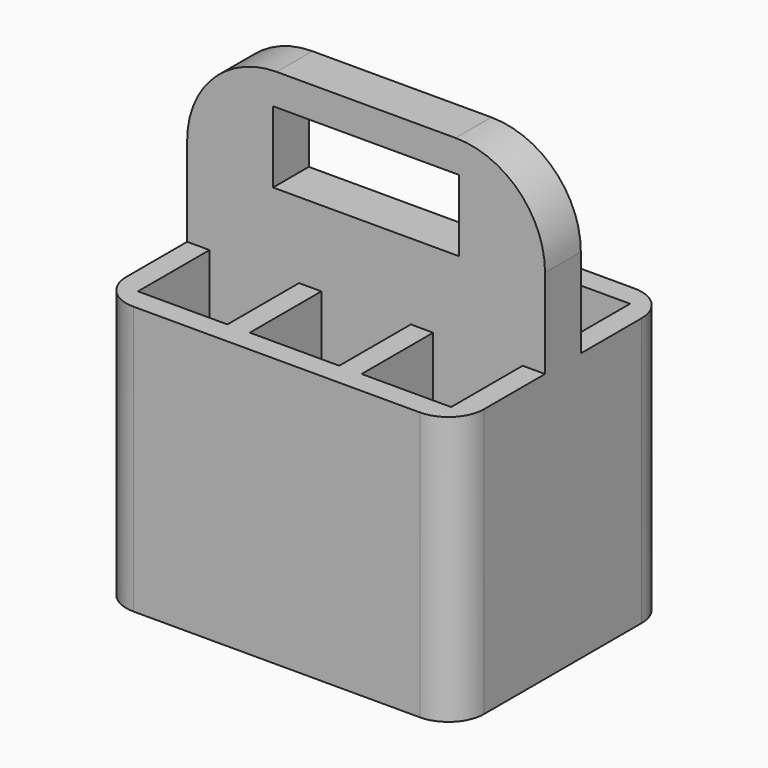
from build123d import *

# Parameters (mm, degrees)
F0_W          = 3.175
F0_H          = 0.018239446
F0_H_2        = 12.681760554
F1_DEPTH      = 25.4
F2_R          = 6.35
F3_W          = 13.208
F3_H          = 5.08
F4_DEPTH      = 12.7
F5_W          = 6.35
F5_H          = 6.35
F6_DEPTH      = 4.7498
F6_DEPTH_BACK = 50.8
F7_R          = 2.54


with BuildPart() as f1:
    # F0 (on Right) → F1 (new body)
    with BuildSketch(Plane.YZ):
        Polygon((9.525, -9.525), (9.525, 9.525), (1.5875, 9.525), (1.5875, 9.506760554), (-1.5875, 9.506760554), (-1.5875, 9.525), (-9.525, 9.525), (-9.525, -9.525), align=None)
        with Locations((0, 9.515880277)):
            Rectangle(F0_W, F0_H)
        with Locations((0, 15.865880277)):
            Rectangle(F0_W, F0_H_2)
    extrude(amount=F1_DEPTH)

    # F2
    f2_edges = [f1.edges().sort_by_distance(p)[0] for p in [
        (25.4, 0, 22.206761),
        (0, 0, 22.206761),
    ]]
    fillet(f2_edges, radius=F2_R)

    # F3 (on Front) → F4 (cut, symmetric)
    with BuildSketch(Plane.XZ):
        with Locations((12.7, 17.4384163693)):
            Rectangle(F3_W, F3_H)
    extrude(amount=F4_DEPTH, both=True, mode=Mode.SUBTRACT)

    # F5 (on Top) → F6 (cut, two sides)
    with BuildSketch(Plane.XY) as f6_sk:
        with Locations((4.7625, 4.7625)):
            Rectangle(F5_W, F5_H)
        with Locations((20.6375, 4.7625)):
            Rectangle(F5_W, F5_H)
        with Locations((12.7, 4.7625)):
            Rectangle(F5_W, F5_H)
        with Locations((4.7625, -4.7625)):
            Rectangle(F5_W, F5_H)
        with Locations((12.7, -4.7625)):
            Rectangle(F5_W, F5_H)
        with Locations((20.6375, -4.7625)):
            Rectangle(F5_W, F5_H)
    extrude(amount=-F6_DEPTH, mode=Mode.SUBTRACT)
    extrude(f6_sk.sketch, amount=F6_DEPTH_BACK, mode=Mode.SUBTRACT)

    # F7
    f7_edges = [f1.edges().sort_by_distance(p)[0] for p in [
        (25.4, -9.525, 0),
        (0, -9.525, 0),
        (25.4, 9.525, 0),
        (0, 9.525, 0),
    ]]
    fillet(f7_edges, radius=F7_R)


solid = f1.part
